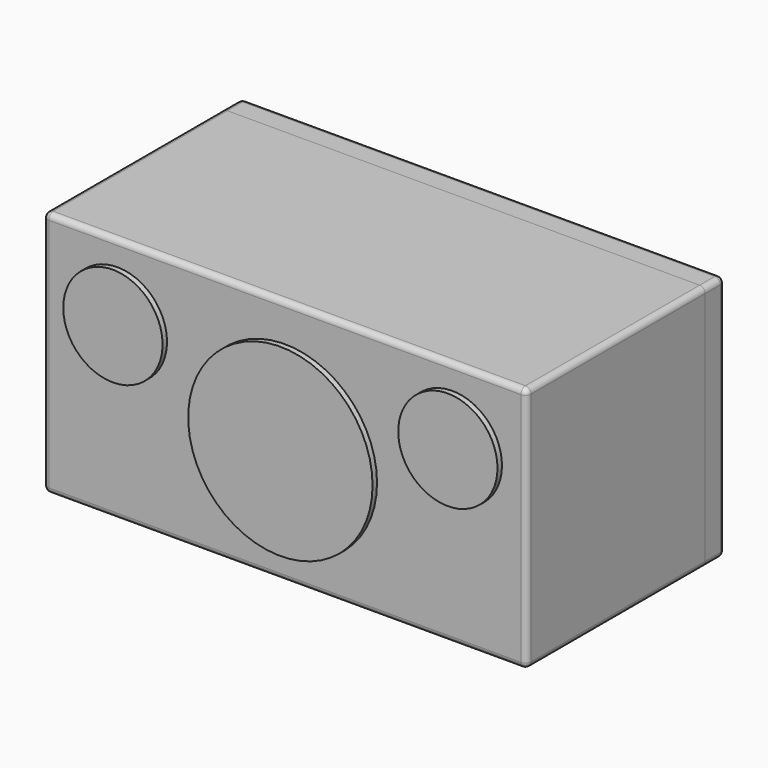
from build123d import *

# Parameters (mm, degrees)
F3_R      = 82.55
F4_DEPTH  = 5
F5_R      = 76.2
F6_DEPTH  = 100
F7_R      = 44.45
F8_DEPTH  = 5
F9_R      = 38.1
F10_DEPTH = 50
F12_W     = 432.9
F12_H     = 221
F13_DEPTH = 200
F14_T     = -22
F16_DEPTH = 178
F18_W     = 91.44
F18_H     = 68.58
F19_DEPTH = 25
F20_W     = 432.9
F20_H     = 221
F21_DEPTH = 22
F22_R     = 5
F22_2_R   = 5


with BuildPart() as f4:
    # F3 (on Front) → F4 (new body)
    with BuildSketch(Plane.XZ):
        Circle(F3_R)
    extrude(amount=F4_DEPTH)

    # F5 (on face) → F6 (join)
    with BuildSketch(Plane(origin=(0, 0, 0), x_dir=(-1, 0, 0), z_dir=(0, 1, 0))):
        Circle(F5_R)
    extrude(amount=F6_DEPTH)


with BuildPart() as f8:
    # F7 (on Front) → F8 (new body)
    with BuildSketch(Plane.XZ):
        with Locations((150, 50)):
            Circle(F7_R)
    extrude(amount=F8_DEPTH)

    # F9 (on face) → F10 (join)
    with BuildSketch(Plane(origin=(0, 0, 0), x_dir=(-1, 0, 0), z_dir=(0, 1, 0))):
        with Locations((-150, 50)):
            Circle(F9_R)
    extrude(amount=F10_DEPTH)


with BuildPart() as f11_1:
    # F11: instance of F8
    add(f8.part.mirror(Plane.YZ))


with BuildPart() as f13:
    # F12 (on Front) → F13 (new body)
    with BuildSketch(Plane.XZ):
        with Locations((0, 5.95)):
            Rectangle(F12_W, F12_H)
    extrude(amount=-F13_DEPTH)

    # F14
    f14_openings = [f13.faces().sort_by_distance(p)[0] for p in [
        (0, 200, 5.95),
    ]]
    offset(amount=F14_T, openings=f14_openings)



with BuildPart() as f16:
    # F15 (on face) → F16 (new body, through all)
    with BuildSketch(Plane(origin=(0, 22, 0), x_dir=(-1, 0, 0), z_dir=(0, 1, 0))):
        Polygon((-83.55, 94.45), (-105.55, 94.45), (-105.55, 5.55), (-194.45, 5.55), (-194.45, -16.45), (-83.55, -16.45), align=None)
    extrude(amount=F16_DEPTH)


with BuildPart() as f13_1:
    add(f13.part)

    add(f16.part)  # F17 merges F16
    # F17: F16 across plane
    add(f16.part.mirror(Plane.YZ))

    # F22#2
    f22_2_edges = [f13_1.edges().sort_by_distance(p)[0] for p in [
        (216.45, 100, 116.45),
        (216.45, 100, -104.55),
        (216.45, 0, 5.95),
        (-216.45, 100, 116.45),
        (-216.45, 100, -104.55),
        (-216.45, 0, 5.95),
        (0, 0, 116.45),
        (0, 0, -104.55),
    ]]
    fillet(f22_2_edges, radius=F22_2_R)


with BuildPart() as f19:
    # F18 (on face) → F19 (new body)
    with BuildSketch(Plane.XY.offset(-82.55)):
        with Locations((126.2130402029, 165.71)):
            Rectangle(F18_W, F18_H)
    extrude(amount=F19_DEPTH)


with BuildPart() as f21:
    # F20 (on face) → F21 (new body)
    with BuildSketch(Plane(origin=(0, 200, 0), x_dir=(-1, 0, 0), z_dir=(0, 1, 0))):
        with Locations((0, 5.95)):
            Rectangle(F20_W, F20_H)
    extrude(amount=F21_DEPTH)

    # F22
    f22_edges = [f21.edges().sort_by_distance(p)[0] for p in [
        (0, 222, 116.45),
        (216.45, 222, 5.95),
        (0, 222, -104.55),
        (-216.45, 222, 5.95),
        (216.45, 211, 116.45),
        (216.45, 211, -104.55),
        (-216.45, 211, 116.45),
        (-216.45, 211, -104.55),
    ]]
    fillet(f22_edges, radius=F22_R)


solid = Compound([f4.part, f8.part, f11_1.part, f13_1.part, f19.part, f21.part])
